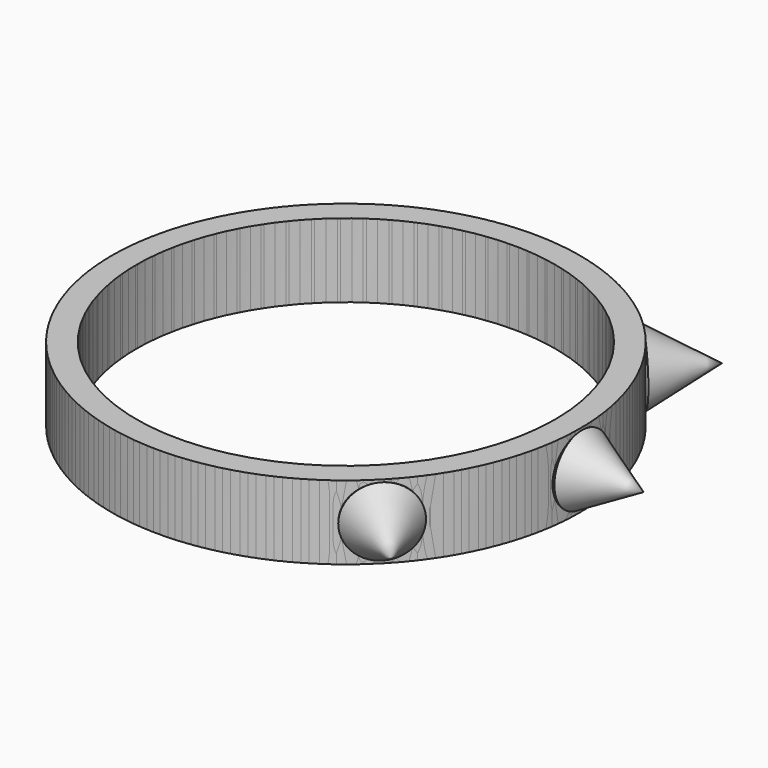
from build123d import *

# Parameters (mm, degrees)
F0_R          = 9.5
F0_R_2        = 8.5
F1_DEPTH      = 1.5
F1_DEPTH_BACK = 1.5
F5_COUNT      = 2
F5_ANGLE      = 45


with BuildPart() as f1:
    # F0 (on Top) → F1 (new body, two sides)
    with BuildSketch(Plane.XY) as f1_sk:
        Circle(F0_R)
        Circle(F0_R_2, mode=Mode.SUBTRACT)
    extrude(amount=F1_DEPTH)
    extrude(f1_sk.sketch, amount=-F1_DEPTH_BACK)

    # F2 (on Top) → F3 (revolve)
    with BuildSketch(Plane.XY):
        with BuildLine():
            ThreePointArc((9.3842680315, 1.4817265313), (9.4673748644, 0.7929774127), (9.5, 0.1))
            Line((9.5, 0.1), (9.5, 1.5))
            Line((9.5, 1.5), (9.3842680315, 1.4817265313))
        make_face()
        Polygon((9.5, 1.5), (9.5, 0.1), (12, 0.1), align=None)
    revolve(axis=Axis((10.75, 0.1, 0), (1, 0, 0)))


with BuildPart() as f5_1:
    # F5: instance of F1
    add(f1.part.rotate(Axis((0, 0, 1.5367157757), (0, 0, -1)), 1 * F5_ANGLE / (F5_COUNT - 1)))


with BuildPart() as f5_2:
    # F5: instance of F1
    add(f1.part.rotate(Axis((0, 0, 1.5367157757), (0, 0, -1)), -1 * F5_ANGLE / (F5_COUNT - 1)))


solid = Compound([f1.part, f5_1.part, f5_2.part])
